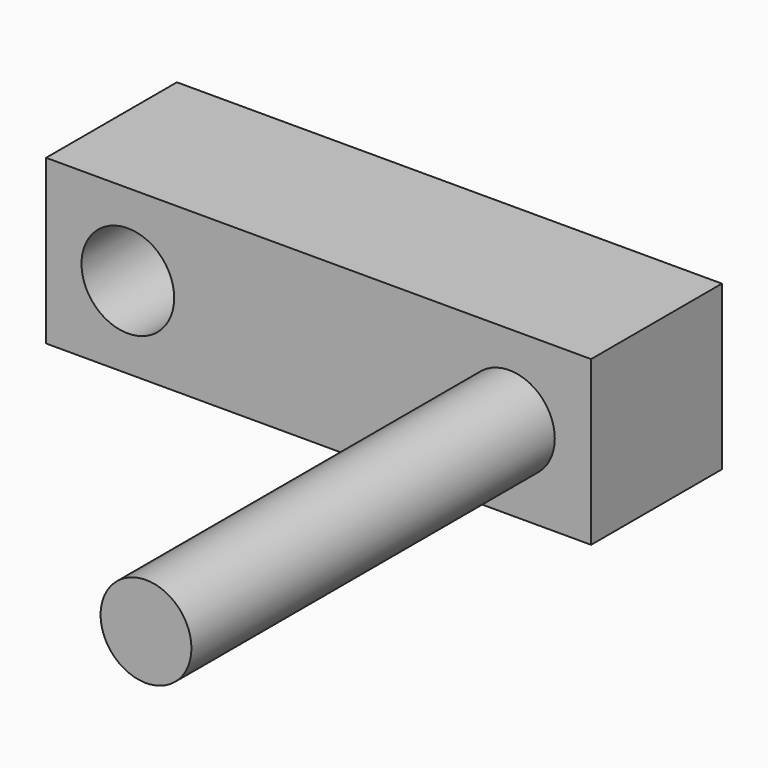
from build123d import *

# Parameters (mm, degrees)
F0_W     = 76.2
F0_H     = 22.86
F0_R     = 6.477
F1_DEPTH = 22.86
F2_R     = 6.35
F3_DEPTH = 63.5


with BuildPart() as f1:
    # F0 (on Front) → F1 (new body)
    with BuildSketch(Plane.XZ):
        with Locations((-13.242823, 38.622339)):
            Rectangle(F0_W, F0_H)
        with Locations((-39.912823, 38.622339)):
            Circle(F0_R, mode=Mode.SUBTRACT)
    extrude(amount=F1_DEPTH)

    # F2 (on face) → F3 (join)
    with BuildSketch(Plane.XZ.offset(22.86)):
        with Locations((13.427177, 38.622339)):
            Circle(F2_R)
    extrude(amount=F3_DEPTH)


solid = f1.part
